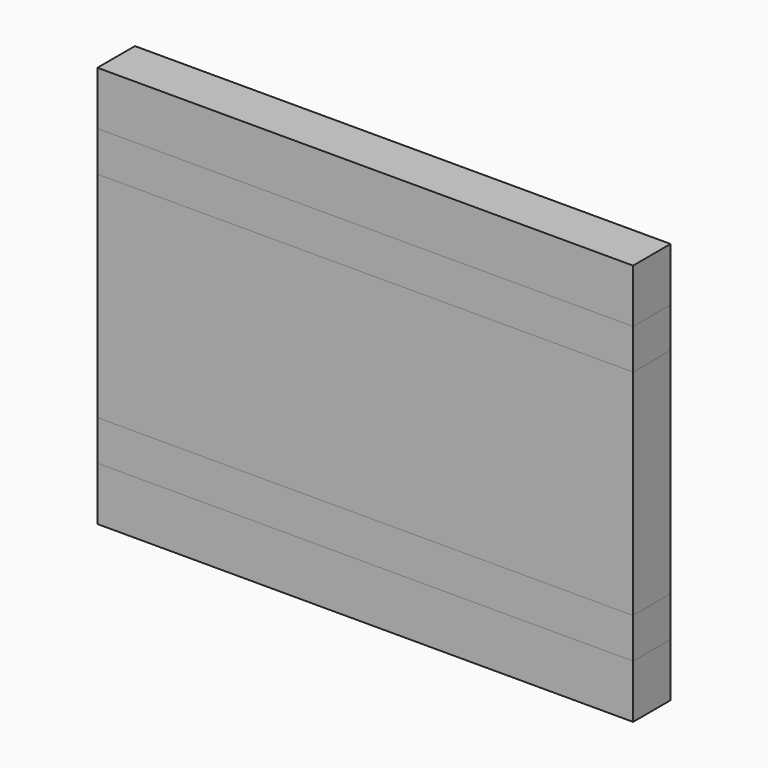
from build123d import *

# Parameters (mm, degrees)
F0_W     = 508
F0_H     = 38.1
F1_DEPTH = 44.45
F2_DEPTH = 44.45
F0_H_2   = 203.2
F0_H_3   = 50.8
F3_DEPTH = 44.45


with BuildPart() as f1:
    # F0 (on Front) → F1 (new body)
    with BuildSketch(Plane.XZ):
        with Locations((95.023698, 87.108116)):
            Rectangle(F0_W, F0_H)
    extrude(amount=F1_DEPTH)


with BuildPart() as f2:
    # F0 (on Front) → F2 (new body)
    with BuildSketch(Plane.XZ):
        with Locations((95.023698, -154.191884)):
            Rectangle(F0_W, F0_H)
    extrude(amount=F2_DEPTH)


with BuildPart() as f3:
    # F0 (on Front) → F3 (new body)
    with BuildSketch(Plane.XZ):
        with Locations((95.023698, -33.541884)):
            Rectangle(F0_W, F0_H_2)
        with Locations((95.023698, 131.558116)):
            Rectangle(F0_W, F0_H_3)
        with Locations((95.023698, -198.641884)):
            Rectangle(F0_W, F0_H_3)
    extrude(amount=F3_DEPTH)


solid = Compound([f1.part, f2.part, f3.part])
